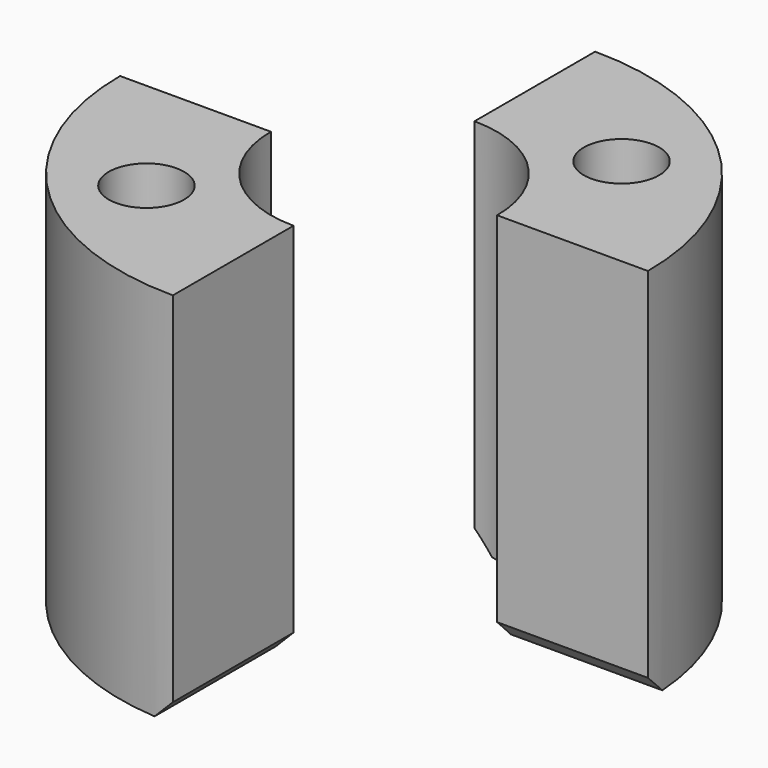
from build123d import *

# Parameters (mm, degrees)
CYLINDER1970_R     = 1
CYLINDER1970_DEPTH = 20
CYLINDER1967_R     = 1
CYLINDER1967_DEPTH = 20
CYLINDER1966_R     = 2
CYLINDER1966_DEPTH = 2
CYLINDER1972_R     = 2
CYLINDER1972_DEPTH = 2
CYLINDER1971_R     = 3
CYLINDER1971_DEPTH = 5
CYLINDER1963_R     = 3
CYLINDER1963_DEPTH = 5
BOX760_W           = 10
BOX760_H           = 20
BOX760_DEPTH       = 10
BOX758_W           = 10
BOX758_H           = 20
BOX758_DEPTH       = 10
TUBE078_R          = 7
TUBE078_R_2        = 1
TUBE078_DEPTH      = 10
CHAMFER099_SIZE    = 0.5


with BuildPart() as obj1:
    # Cylinder1970 → Cylinder1970 (new body)
    with BuildSketch(Plane(origin=(-3.5, -3.5, 0), x_dir=(1, 0, 0), z_dir=(0, 0, 1))):
        Circle(CYLINDER1970_R)
    extrude(amount=CYLINDER1970_DEPTH)


with BuildPart() as compound880:
    # Cylinder1967 → Cylinder1967 (new body)
    with BuildSketch(Plane(origin=(3.5, 3.5, 0), x_dir=(1, 0, 0), z_dir=(0, 0, 1))):
        Circle(CYLINDER1967_R)
    extrude(amount=CYLINDER1967_DEPTH)

    # Compound880: union obj1
    add(obj1.part)


with BuildPart() as obj2:
    # Cylinder1966 → Cylinder1966 (new body)
    with BuildSketch(Plane(origin=(-3.5, -3.5, 0), x_dir=(1, 0, 0), z_dir=(0, 0, 1))):
        Circle(CYLINDER1966_R)
    extrude(amount=CYLINDER1966_DEPTH)


with BuildPart() as compound887:
    # Cylinder1972 → Cylinder1972 (new body)
    with BuildSketch(Plane(origin=(3.5, 3.5, 0), x_dir=(1, 0, 0), z_dir=(0, 0, 1))):
        Circle(CYLINDER1972_R)
    extrude(amount=CYLINDER1972_DEPTH)

    # Compound887: union obj2
    add(obj2.part)


with BuildPart() as obj3:
    # Cylinder1971 → Cylinder1971 (new body)
    with BuildSketch(Plane.XY.offset(5)):
        Circle(CYLINDER1971_R)
    extrude(amount=CYLINDER1971_DEPTH)


with BuildPart() as obj4:
    # Cylinder1963 → Cylinder1963 (new body)
    with BuildSketch(Plane.XY):
        Circle(CYLINDER1963_R)
    extrude(amount=CYLINDER1963_DEPTH)


with BuildPart() as krychle759:
    # Box760 → Box760 (new body)
    with BuildSketch(Plane(origin=(0, 0, 0), x_dir=(0, 1, 0), z_dir=(0, 0, 1))):
        with Locations((5, 10)):
            Rectangle(BOX760_W, BOX760_H)
    extrude(amount=BOX760_DEPTH)


with BuildPart() as compound885:
    # Box758 → Box758 (new body)
    with BuildSketch(Plane(origin=(0, 0, 0), x_dir=(0, -1, 0), z_dir=(0, 0, 1))):
        with Locations((5, 10)):
            Rectangle(BOX758_W, BOX758_H)
    extrude(amount=BOX758_DEPTH)

    # Compound885: union Krychle759
    add(krychle759.part)


with BuildPart() as chamfer099:
    # Tube078 → Tube078 (new body)
    with BuildSketch(Plane.XY):
        Circle(TUBE078_R)
        Circle(TUBE078_R_2, mode=Mode.SUBTRACT)
    extrude(amount=TUBE078_DEPTH)

    # Cut721: cut Compound885
    add(compound885.part, mode=Mode.SUBTRACT)

    # Cut718: cut obj4
    add(obj4.part, mode=Mode.SUBTRACT)

    # Cut720: cut obj3
    add(obj3.part, mode=Mode.SUBTRACT)

    # Cut719: cut Compound887
    add(compound887.part, mode=Mode.SUBTRACT)

    # Cut722: cut Compound880
    add(compound880.part, mode=Mode.SUBTRACT)

    # Chamfer099
    chamfer099_edges = [chamfer099.edges().sort_by_distance(p)[0] for p in [
        (0, 5, 0),
        (5, 0, 0),
        (0, -5, 0),
        (-5, 0, 0),
    ]]
    chamfer(chamfer099_edges, length=CHAMFER099_SIZE)


solid = chamfer099.part
